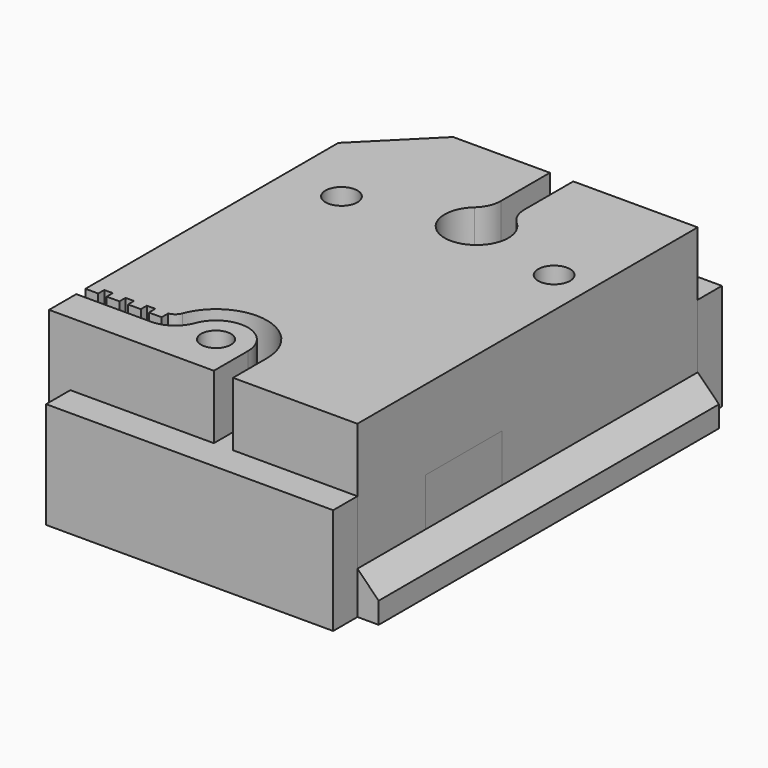
from build123d import *

# Parameters (mm, degrees)
SKETCH_W             = 27
SKETCH_H             = 45.7
PAD_DEPTH            = 10
SKETCH002_R          = 1.5
POCKET_DEPTH         = 5
SKETCH004_W          = 27
SKETCH004_H          = 33.6
PAD001_DEPTH         = 10
SKETCH003_R          = 1.5
POCKET001_DEPTH      = 5
SKETCH005_W          = 31
SKETCH005_H          = 40
PAD002_DEPTH         = 16
SKETCH006_W          = 27
SKETCH006_H          = 36
POCKET002_DEPTH      = 1.8
SKETCH007_W          = 9
SKETCH007_H          = 11.052409
POCKET003_DEPTH      = 29
POCKET004_DEPTH      = 40.001
SKETCH011_R          = 1.5
POCKET005_DEPTH      = 16.001
POCKET006_DEPTH      = 7
SKETCH015_R          = 1.4
POCKET007_DEPTH      = 5
POCKET007_DEPTH_BACK = -100
POCKET008_DEPTH      = 16.001
SKETCH016_W          = 1.2
SKETCH016_H          = 1.5
PAD003_DEPTH         = 7


with BuildPart() as obj1:
    # Sketch → Pad (new body)
    with BuildSketch(Plane.XY):
        Rectangle(SKETCH_W, SKETCH_H)
    extrude(amount=PAD_DEPTH)

    # Sketch002 (on Face6 of Pad) → Pocket (cut)
    with BuildSketch(Plane.XY.offset(10)):
        with Locations((-10, 10)):
            Circle(SKETCH002_R)
        with Locations((10, 10)):
            Circle(SKETCH002_R)
        with Locations((-10, -10)):
            Circle(SKETCH002_R)
        with Locations((10, -10)):
            Circle(SKETCH002_R)
    extrude(amount=-POCKET_DEPTH, mode=Mode.SUBTRACT)


with BuildPart() as obj2:
    # Sketch004 → Pad001 (new body)
    with BuildSketch(Plane.XY):
        Rectangle(SKETCH004_W, SKETCH004_H)
    extrude(amount=PAD001_DEPTH)

    # Sketch003 (on Face6 of Pad001) → Pocket001 (cut)
    with BuildSketch(Plane.XY.offset(10)):
        with Locations((-10, 7.5)):
            Circle(SKETCH003_R)
        with Locations((10, 7.5)):
            Circle(SKETCH003_R)
        with Locations((-10, -7.5)):
            Circle(SKETCH003_R)
        with Locations((10, -7.5)):
            Circle(SKETCH003_R)
    extrude(amount=-POCKET001_DEPTH, mode=Mode.SUBTRACT)


with BuildPart() as obj3:
    # Sketch005 → Pad002 (new body)
    with BuildSketch(Plane.XY):
        Rectangle(SKETCH005_W, SKETCH005_H)
    extrude(amount=PAD002_DEPTH)

    # Sketch006 (on Face5 of Pad002) → Pocket002 (cut)
    with BuildSketch(Plane(origin=(0, 0, 0), x_dir=(1, 0, 0), z_dir=(0, 0, -1))):
        Rectangle(SKETCH006_W, SKETCH006_H)
    extrude(amount=-POCKET002_DEPTH, mode=Mode.SUBTRACT)

    # Sketch007 (on Face2 of Pocket002) → Pocket003 (cut)
    with BuildSketch(Plane(origin=(-15.5, 0, 0), x_dir=(0, -1, 0), z_dir=(-1, 0, 0))):
        with Locations((7.5, 2.973796)):
            Rectangle(SKETCH007_W, SKETCH007_H)
    extrude(amount=-POCKET003_DEPTH, mode=Mode.SUBTRACT)

    # Sketch009 (on Face9 of Pocket003) → Pocket004 (cut, through all)
    with BuildSketch(Plane.XZ.offset(20)):
        Polygon((13.5, 18.73), (13.5, 4), (19.97, -2.47), (19.97, 18.73), align=None)
    extrude(amount=-POCKET004_DEPTH, mode=Mode.SUBTRACT)

    # Sketch011 (on Face6 of Pocket004) → Pocket005 (cut, through all)
    with BuildSketch(Plane.XY.offset(16)):
        with Locations((-10, 7.5)):
            Circle(SKETCH011_R)
        with Locations((10, 7.5)):
            Circle(SKETCH011_R)
    extrude(amount=-POCKET005_DEPTH, mode=Mode.SUBTRACT)

    # Sketch012 → Pocket006 (cut)
    with BuildSketch(Plane.XY.offset(16)):
        with BuildLine():
            Line((1.8, 29.248529), (-0.4, 29.248529))
            Line((-0.4, 29.248529), (-0.4, 14.248529))
            ThreePointArc((-1.3, 12.236068), (-0.635248, 13.146259), (-0.4, 14.248529))
            ThreePointArc((-1.3, 12.236068), (0.7, 7), (2.7, 12.236068))
            ThreePointArc((1.8, 14.248529), (2.035248, 13.146259), (2.7, 12.236068))
            Line((1.8, 29.248529), (1.8, 14.248529))
        make_face()
        with BuildLine():
            Line((0, -22.14), (0, -16))
            ThreePointArc((0, -16), (-2.466134, -13.047884), (-5.809991, -14.94931))
            ThreePointArc((-8.477818, -16.8), (-6.854369, -16.29203), (-5.809991, -14.94931))
            Line((-17.907818, -16.8), (-8.477818, -16.8))
            Line((-17.907818, -16.8), (-17.907818, -15))
            Line((-17.907818, -15), (-8.477818, -15))
            ThreePointArc((-8.477818, -15), (-7.880345, -14.813054), (-7.495986, -14.318896))
            ThreePointArc((1.8, -16), (-2.145814, -11.276615), (-7.495986, -14.318896))
            Line((1.8, -22.14), (1.8, -16))
            Line((0, -22.14), (1.8, -22.14))
        make_face()
    extrude(amount=-POCKET006_DEPTH, mode=Mode.SUBTRACT)

    # Sketch015 → Pocket007 (cut, two sides)
    with BuildSketch(Plane.XY.offset(9)) as pocket007_sk:
        with Locations((-3, -16)):
            Circle(SKETCH015_R)
        with Locations((0.701875, 10)):
            Circle(SKETCH015_R)
    extrude(amount=-POCKET007_DEPTH, mode=Mode.SUBTRACT)
    extrude(pocket007_sk.sketch, amount=-POCKET007_DEPTH_BACK, mode=Mode.SUBTRACT)

    # Sketch014 → Pocket008 (cut, through all)
    with BuildSketch(Plane.XY.offset(16)):
        Polygon((-15.5, 14), (-7.501605, 21.998395), (-21.34561, 27.350628), align=None)
    extrude(amount=-POCKET008_DEPTH, mode=Mode.SUBTRACT)

    # Sketch016 (on Face6 of Pocket007) → Pad003 (join)
    with BuildSketch(Plane.XY.offset(16)):
        with Locations((-14.908157, -14.965309)):
            Rectangle(SKETCH016_W, SKETCH016_H)
        with Locations((-12.908157, -14.965309)):
            Rectangle(SKETCH016_W, SKETCH016_H)
        with Locations((-10.908171, -14.957625)):
            Rectangle(SKETCH016_W, SKETCH016_H)
        with Locations((-8.90867, -15.002286)):
            Rectangle(SKETCH016_W, SKETCH016_H)
    extrude(amount=-PAD003_DEPTH)


solid = Compound([obj1.part, obj2.part, obj3.part])
